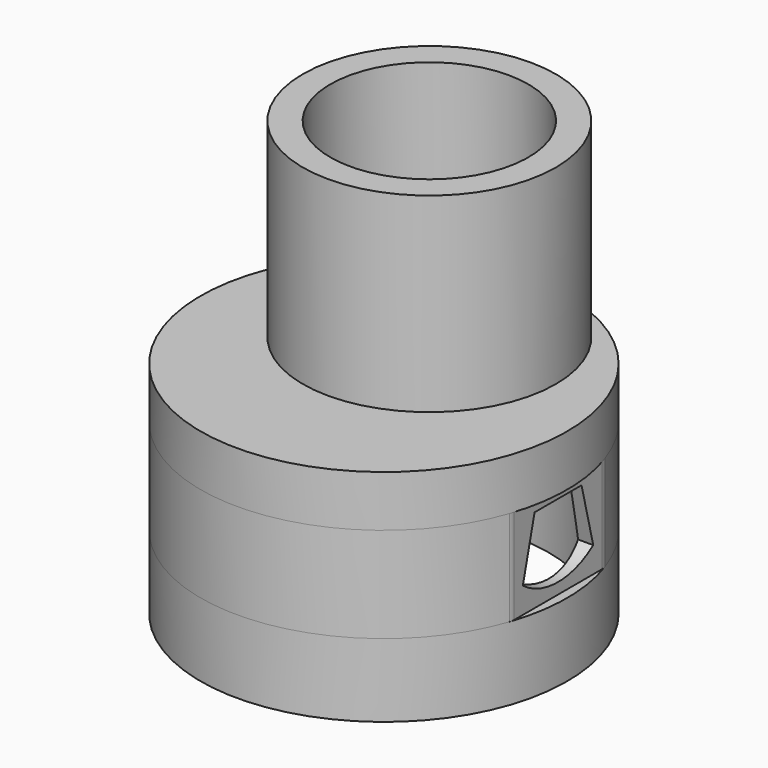
from build123d import *

# Parameters (mm, degrees)
FACE005_R        = 13.5
EXTRUDE006_DEPTH = 30
FACE003_R        = 25
EXTRUDE004_DEPTH = 3
EXTRUDE003_DEPTH = 47.5
OFFSET001_R      = 25
OFFSET001_R_2    = 22.5
EXTRUDE002_DEPTH = 4
FACE_R           = 25
FACE_R_2         = 22.5
EXTRUDE_DEPTH    = 10
OFFSET_R         = 22.5
EXTRUDE001_DEPTH = 13
FILLET_R         = 2
FILLET001_R      = 2
FILLET002_R      = 2
FILLET003_R      = 2
SKETCH004_R      = 17.25
EXTRUDE005_DEPTH = 26


with BuildPart() as extrude006:
    # Face005 → Extrude006 (new body)
    with BuildSketch(Plane(origin=(0, 7.75, 56), x_dir=(0, 1, 0), z_dir=(0, 0, 1))):
        Circle(FACE005_R)
    extrude(amount=-EXTRUDE006_DEPTH)


with BuildPart() as extrude004:
    # Face003 → Extrude004 (new body)
    with BuildSketch(Plane(origin=(0, 0, 27), x_dir=(0, 1, 0), z_dir=(0, 0, 1))):
        Circle(FACE003_R)
    extrude(amount=EXTRUDE004_DEPTH)


with BuildPart() as extrude003:
    # Face002 → Extrude003 (new body)
    with BuildSketch(Plane(origin=(23.749999, 0, 16.462815), x_dir=(0, -1, 0), z_dir=(1, 0, 0))):
        with BuildLine():
            Line((-4, -5.037185), (4, -5.037185))
            Line((4, -5.037185), (6, 2.962815))
            ThreePointArc((6, 2.962815), (0, 4.962815), (-6, 2.962815))
            Line((-6, 2.962815), (-4, -5.037185))
        make_face()
    extrude(amount=-EXTRUDE003_DEPTH)


with BuildPart() as extrude002:
    # Offset001 → Extrude002 (new body)
    with BuildSketch(Plane(origin=(0, 0, 23), x_dir=(0, 1, 0), z_dir=(0, 0, 1))):
        Circle(OFFSET001_R)
        Circle(OFFSET001_R_2, mode=Mode.SUBTRACT)
    extrude(amount=EXTRUDE002_DEPTH)


with BuildPart() as fusion:
    # Face → Extrude (new body)
    with BuildSketch(Plane(origin=(0, 0, 0), x_dir=(0, 1, 0), z_dir=(0, 0, 1))):
        Circle(FACE_R)
        Circle(FACE_R_2, mode=Mode.SUBTRACT)
    extrude(amount=EXTRUDE_DEPTH)

    # Fusion: union Extrude002
    add(extrude002.part)


with BuildPart() as fusion002:
    # Offset → Extrude001 (new body)
    with BuildSketch(Plane(origin=(0, 0, 10), x_dir=(0, 1, 0), z_dir=(0, 0, 1))):
        with BuildLine():
            ThreePointArc((7.80625, -23.749999), (25, 0), (7.80625, 23.749999))
            Line((7.80625, 23.749999), (-7.80625, 23.749999))
            ThreePointArc((-7.80625, 23.749999), (-25, 0), (-7.80625, -23.749999))
            Line((-7.80625, -23.749999), (7.80625, -23.749999))
        make_face()
        Circle(OFFSET_R, mode=Mode.SUBTRACT)
    extrude(amount=EXTRUDE001_DEPTH)

    # Fillet
    fillet_edges = [fusion002.edges().sort_by_distance(p)[0] for p in [
        (23.749999, -7.80625, 16.5),
    ]]
    fillet(fillet_edges, radius=FILLET_R)

    # Fillet001
    fillet001_edges = [fusion002.edges().sort_by_distance(p)[0] for p in [
        (23.749999, 7.80625, 16.5),
    ]]
    fillet(fillet001_edges, radius=FILLET001_R)

    # Fillet002
    fillet002_edges = [fusion002.edges().sort_by_distance(p)[0] for p in [
        (-23.749999, 7.80625, 16.5),
    ]]
    fillet(fillet002_edges, radius=FILLET002_R)

    # Fillet003
    fillet003_edges = [fusion002.edges().sort_by_distance(p)[0] for p in [
        (-23.749999, -7.80625, 16.5),
    ]]
    fillet(fillet003_edges, radius=FILLET003_R)

    # Fusion001: union Fusion
    add(fusion.part)

    # Cut: cut Extrude003
    add(extrude003.part, mode=Mode.SUBTRACT)

    # Fusion002: union Extrude004
    add(extrude004.part)


with BuildPart() as cut001:
    # Sketch004 (on Face3 of Extrude004) → Extrude005 (new body)
    with BuildSketch(Plane.XY.offset(30)):
        with Locations((0, 7.75)):
            Circle(SKETCH004_R)
    extrude(amount=EXTRUDE005_DEPTH)

    # Fusion003: union Fusion002
    add(fusion002.part)

    # Cut001: cut Extrude006
    add(extrude006.part, mode=Mode.SUBTRACT)


solid = cut001.part
